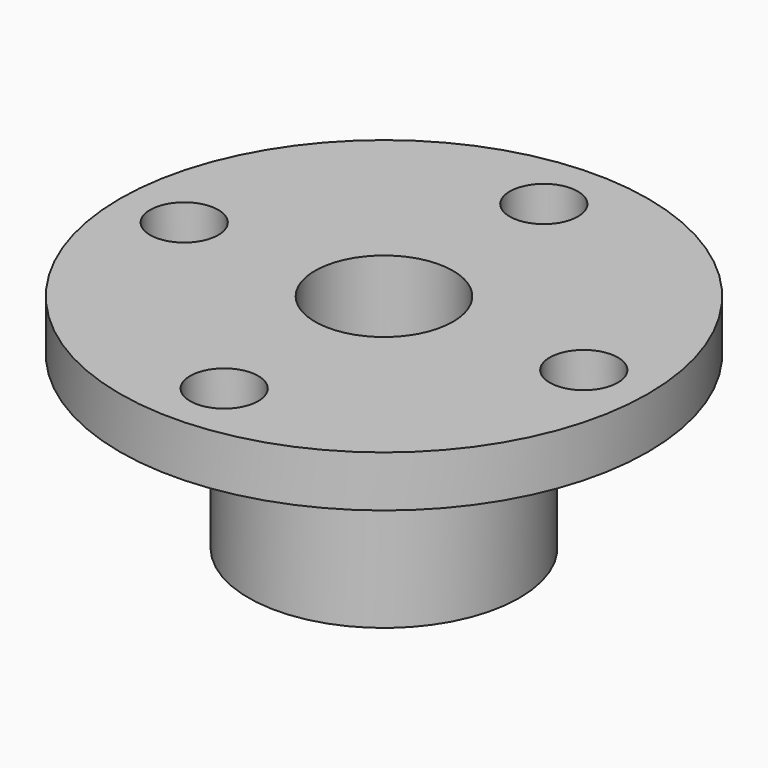
from build123d import *

# Parameters (mm, degrees)
SKETCH009_R           = 2
POCKET001_DEPTH       = 101.455907
POCKET001_DEPTH_BACK  = 94.455907
POLARPATTERN001_COUNT = 4


with BuildPart() as part:
    # Sketch008 → Revolution005 (revolve)
    with BuildSketch(Plane.XZ):
        Polygon((4.05, 3), (4.05, -10), (7.95, -10), (7.95, 0), (15.5, 0), (15.5, 3), align=None)
    revolve(axis=Axis((0, 0, 0), (0, 0, 1)))

    # Sketch009 → Pocket001 (cut, two sides)
    with BuildSketch(Plane.XY) as pocket001_sk:
        with Locations((11.725, 0)):
            Circle(SKETCH009_R)
    pocket001 = extrude(amount=-POCKET001_DEPTH, mode=Mode.SUBTRACT) + extrude(pocket001_sk.sketch, amount=POCKET001_DEPTH_BACK, mode=Mode.SUBTRACT)

    # PolarPattern001: Pocket001 ×4 about axis
    polarpattern001_axis = Axis((0, 0, 0), (0, 0, 1))
    for i in range(1, POLARPATTERN001_COUNT):
        add(pocket001.rotate(polarpattern001_axis, i * 360 / POLARPATTERN001_COUNT), mode=Mode.SUBTRACT)


solid = part.part
